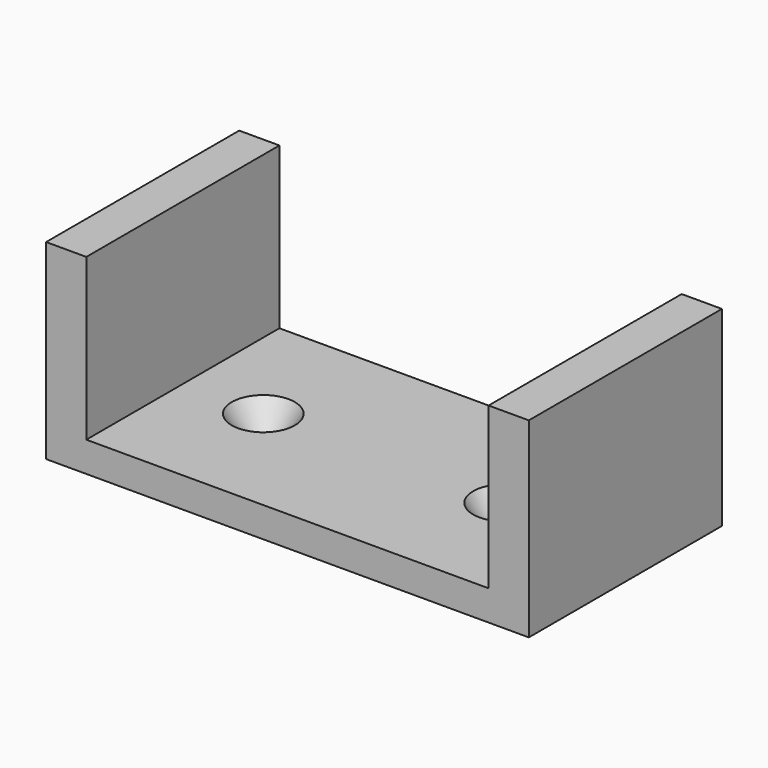
from build123d import *

# Parameters (mm, degrees)
F0_W     = 76.2
F0_H     = 38.1
F0_R     = 2.0574
F1_DEPTH = 4.7625
F2_W     = 6.35
F2_H     = 38.1
F3_DEPTH = 25.4
F4_SIZE2 = 2.921
F4_SIZE  = 4.4704
F5_SIZE2 = 2.921
F5_SIZE  = 4.4704


with BuildPart() as f1:
    # F0 (on Top) → F1 (new body)
    with BuildSketch(Plane.XY):
        Rectangle(F0_W, F0_H)
        with Locations((-19.05, 0)):
            Circle(F0_R, mode=Mode.SUBTRACT)
        with Locations((19.05, 0)):
            Circle(F0_R, mode=Mode.SUBTRACT)
    extrude(amount=F1_DEPTH)

    # F2 (on face) → F3 (join)
    with BuildSketch(Plane.XY.offset(4.7625)):
        with Locations((-34.925, 0)):
            Rectangle(F2_W, F2_H)
        with Locations((34.925, 0)):
            Rectangle(F2_W, F2_H)
    extrude(amount=F3_DEPTH)

    # F4
    f4_edges = [f1.edges().sort_by_distance(p)[0] for p in [
        (-21.1074, 0, 4.7625),
    ]]
    f4_side = f1.faces().sort_by_distance((-21.1074, 0, 2.38125))[0]
    chamfer(f4_edges, length=F4_SIZE, length2=F4_SIZE2, reference=f4_side)

    # F5
    f5_edges = [f1.edges().sort_by_distance(p)[0] for p in [
        (16.9926, 0, 4.7625),
    ]]
    f5_side = f1.faces().sort_by_distance((16.9926, 0, 2.38125))[0]
    chamfer(f5_edges, length=F5_SIZE, length2=F5_SIZE2, reference=f5_side)


solid = f1.part
